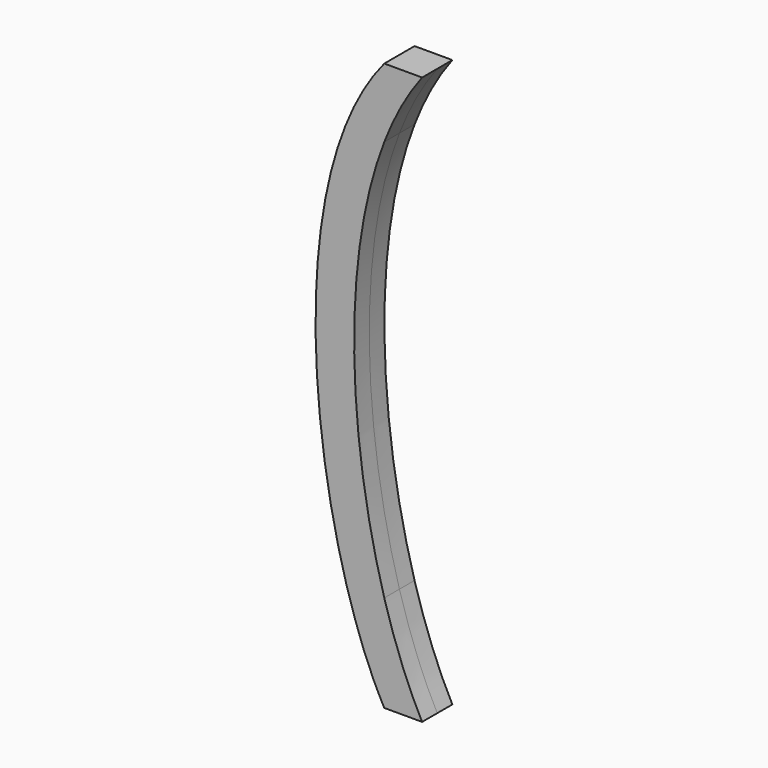
from build123d import *

# Parameters (mm, degrees)
F1_DEPTH = 12.7


with BuildPart() as f1:
    # F0 (on Front) → F1 (new body, symmetric)
    with BuildSketch(Plane.XZ):
        with BuildLine():
            Line((-152.4, 381), (-177.8, 381))
            Line((-177.8, 381), (-177.8, 334.669267))
            add(Edge.make_bspline(
                [(-152.4, 381), (-162.789444, 367.423679), (-171.182667, 351.776967), (-177.8, 334.669267)],
                knots=[0, 0, 0, 0, 54.311283, 54.311283, 54.311283, 54.311283], degree=3))
        make_face()
        with BuildLine():
            Line((-177.8, 65.045732), (-177.8, 0))
            Line((-177.8, 0), (-152.4, 0))
            add(Edge.make_bspline(
                [(-177.8, 65.045732), (-170.647414, 40.108141), (-161.973539, 17.853119), (-152.4, 0)],
                knots=[304.256369, 304.256369, 304.256369, 304.256369, 381, 381, 381, 381], degree=3))
        make_face()
        with BuildLine():
            Line((-177.8, 334.669267), (-177.8, 381))
            add(Edge.make_bspline(
                [(-177.8, 381), (-253.287822, 290.041178), (-223.691106, 82.773164), (-177.8, 0)],
                knots=[0, 0, 0, 0, 381, 381, 381, 381], degree=3))
            Line((-177.8, 0), (-177.8, 65.045732))
            add(Edge.make_bspline(
                [(-177.8, 334.669267), (-208.253521, 255.938191), (-201.095141, 146.264566), (-177.8, 65.045732)],
                knots=[54.311283, 54.311283, 54.311283, 54.311283, 304.256369, 304.256369, 304.256369, 304.256369], degree=3))
        make_face()
    extrude(amount=F1_DEPTH, both=True)


solid = f1.part
